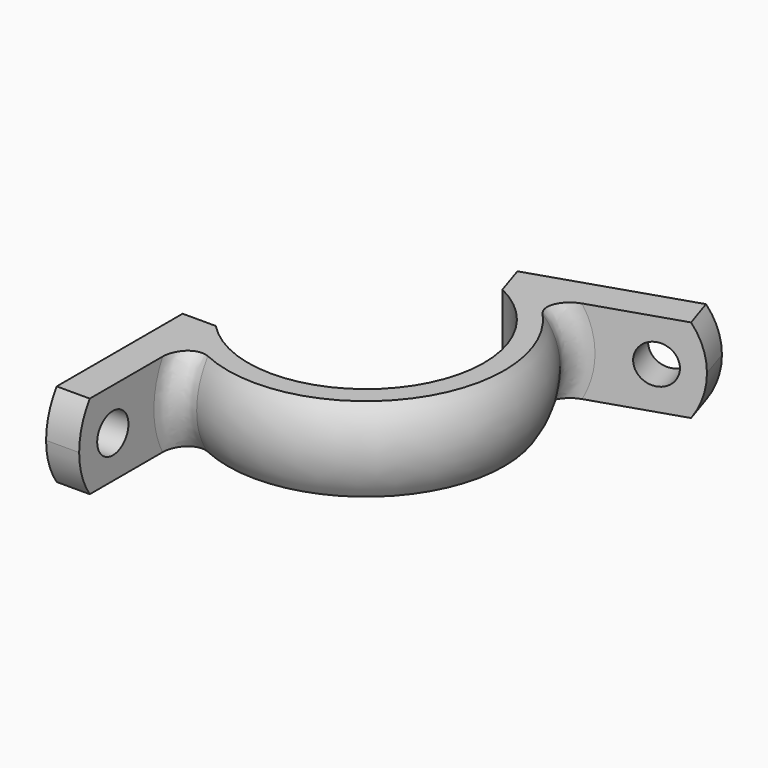
from build123d import *

# Parameters (mm, degrees)
F4_DEPTH  = 7.9385001
F5_W      = 3.1188364687
F5_H      = 16.0931088583
F6_DEPTH  = 7.9375
F7_R      = 1.8415
F8_DEPTH  = 3.1188364687
F9_R      = 1.8415
F10_DEPTH = 3.1188364687
F11_R     = 1.905


with BuildPart() as f2:
    # F1 (on Front) → F2 (revolve)
    with BuildSketch(Plane.XZ):
        with BuildLine():
            ThreePointArc((-13.0361579316, 7.9375), (-14.2875, 3.96875), (-13.0361579316, 0))
            Line((-13.0361579316, 0), (-11.1125, 0))
            Line((-11.1125, 0), (-11.1125, 7.9375))
            Line((-11.1125, 7.9375), (-13.0361579316, 7.9375))
        make_face()
    revolve(axis=Axis((0, 0, 3.96875), (0, 0, 1)))

    # F3 (on face) → F4 (cut, through all)
    with BuildSketch(Plane.XY.offset(7.9375)):
        with BuildLine():
            Line((-10.2775673973, -9.9249314679), (-9.3774272437, -9.0556762258))
            ThreePointArc((-9.3774272437, -9.0556762258), (-10.546473308, 7.6624613788), (5.7146755022, 11.7168211356))
            Line((5.7146755022, 11.7168211356), (6.2632277597, 12.8415199365))
            ThreePointArc((6.2632277597, 12.8415199365), (-11.5588303071, 8.3979817921), (-10.2775673973, -9.9249314679))
        make_face()
        with BuildLine():
            Line((-9.3774272437, -9.0556762258), (-7.9936635313, -7.7193911417))
            ThreePointArc((-7.9936635313, -7.7193911417), (-8.99020135, 6.5317636161), (4.8713993687, 9.9878488395))
            Line((4.8713993687, 9.9878488395), (5.7146755022, 11.7168211356))
            ThreePointArc((5.7146755022, 11.7168211356), (-10.546473308, 7.6624613788), (-9.3774272437, -9.0556762258))
        make_face()
    extrude(amount=-F4_DEPTH, mode=Mode.SUBTRACT)

    # F5 (on Top) → F6 (join, through all)
    with BuildSketch(Plane.XY):
        with Locations((-9.5530817656, -15.7659455709)):
            Rectangle(F5_W, F5_H)
        Polygon((20.1768554158, 14.960892969), (19.2130819443, 17.9270827159), (3.9076258972, 12.9540385864), (4.8713993687, 9.9878488395), align=None)
    extrude(amount=F6_DEPTH)

    # F7 (on face) → F8 (cut, through all)
    with BuildSketch(Plane.YZ.offset(-7.9936635313)):
        with BuildLine():
            ThreePointArc((-23.8125, 3.96875), (-23.4922534904, 6.0494249827), (-22.5611579316, 7.9375))
            Line((-22.5611579316, 7.9375), (-23.8125, 7.9375))
            Line((-23.8125, 7.9375), (-23.8125, 3.96875))
        make_face()
        with BuildLine():
            Line((-23.8125, 0), (-22.5611579316, 0))
            ThreePointArc((-22.5611579316, 0), (-23.4922534904, 1.8880750173), (-23.8125, 3.96875))
            Line((-23.8125, 3.96875), (-23.8125, 0))
        make_face()
        with Locations((-19.84375, 3.96875)):
            Circle(F7_R)
    extrude(amount=-F8_DEPTH, mode=Mode.SUBTRACT)

    # F9 (on face) → F10 (cut, through all)
    with BuildSketch(Plane(origin=(-2.4701778785, 7.6024257905, 0), x_dir=(0.9510565163, 0.3090169944, 0), z_dir=(0.3090169944, -0.9510565163, 0))):
        with Locations((19.84375, 3.96875)):
            Circle(F9_R)
        with BuildLine():
            ThreePointArc((22.5611579316, 7.9375), (23.4922534904, 6.0494249827), (23.8125, 3.96875))
            Line((23.8125, 3.96875), (23.8125, 7.9375))
            Line((23.8125, 7.9375), (22.5611579316, 7.9375))
        make_face()
        with BuildLine():
            ThreePointArc((23.8125, 3.96875), (23.4922534904, 1.8880750173), (22.5611579316, 0))
            Line((22.5611579316, 0), (23.8125, 0))
            Line((23.8125, 0), (23.8125, 3.96875))
        make_face()
    extrude(amount=-F10_DEPTH, mode=Mode.SUBTRACT)

    # F11
    f11_edges = [f2.edges().sort_by_distance(p)[0] for p in [
        (-7.993664, -11.842044, 3.96875),
        (8.792275, 11.261819, 3.96875),
    ]]
    fillet(f11_edges, radius=F11_R)


solid = f2.part
